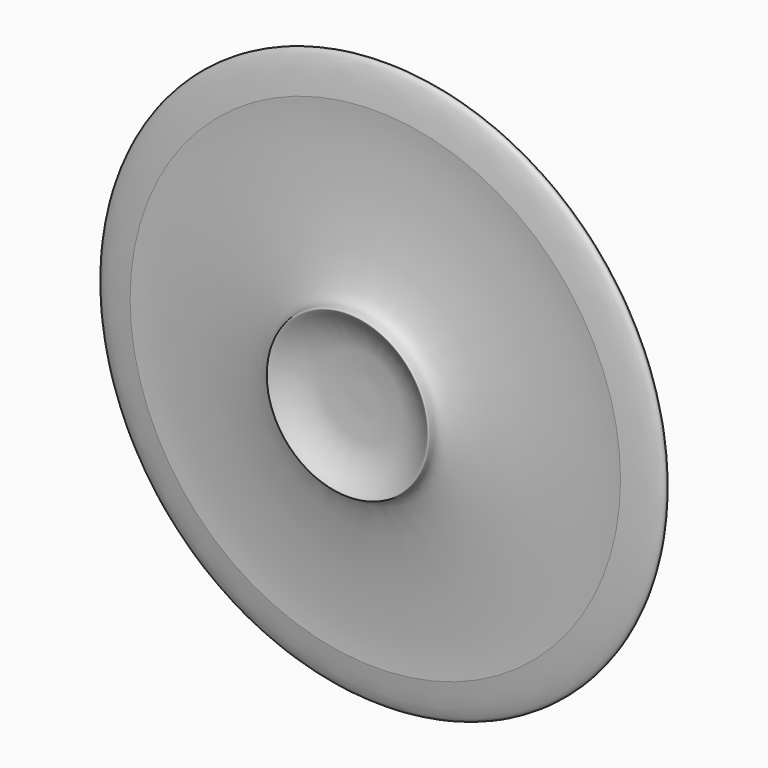
from build123d import *


with BuildPart() as f1:
    # F0 (on Top) → F1 (revolve)
    with BuildSketch(Plane.XY):
        with BuildLine():
            add(Edge.make_bspline(
                [(-58.3235137165, 0), (-62.52201933, 0.5295926288), (-70.4612371553, 1.5310325756), (-59.2805483668, 8.9034348057), (-21.9707860362, -2.3954138796), (-17.5939018461, 8.7970465213), (-14.2647294988, -0.5700337239), (-5.4041097525, -0.2159539588), (0, 0)],
                knots=[0, 0, 0, 0, 0.1478184416, 0.2795191706, 0.581325187, 0.7010890799, 0.8176936304, 1, 1, 1, 1], degree=3))
            add(Edge.make_bspline(
                [(-58.3235137165, 0), (-56.1872533116, 0.1140523387), (-50.1838204294, 0.4345683016), (-18.1254176172, -2.4195000028), (-19.9993584188, -9.7905993284), (-14.3388947165, -3.6287208185), (-5.563944416, -3.7205073374), (0, -3.7787065376)],
                knots=[0, 0, 0, 0, 0.1850603564, 0.5200664798, 0.6232184908, 0.761093647, 1, 1, 1, 1], degree=3))
            Line((0, -3.7787065376), (0, 0))
        make_face()
    revolve(axis=Axis((0, -1.8893532688, 0), (0, -1, 0)))


solid = f1.part
